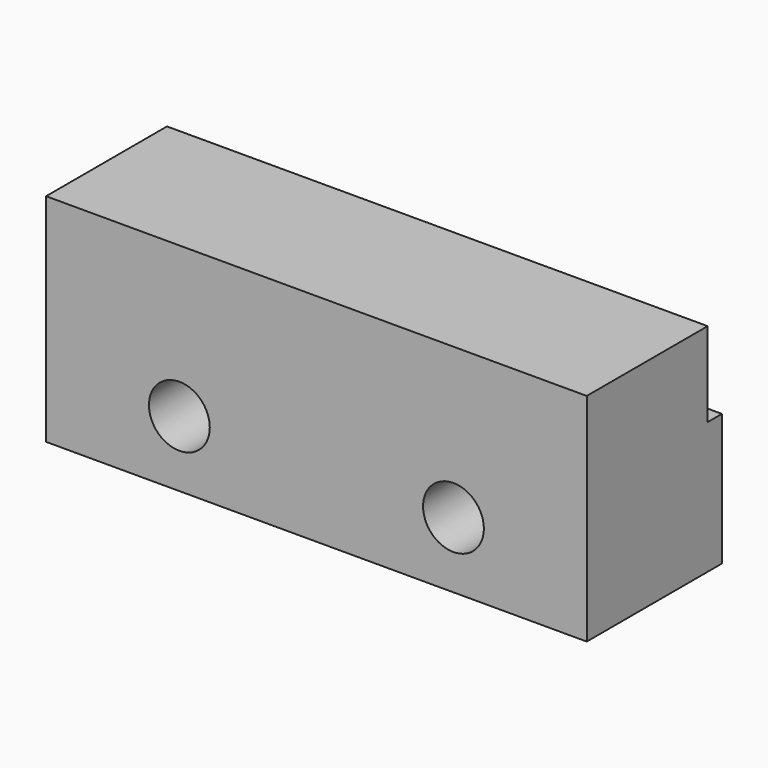
from build123d import *

# Parameters (mm, degrees)
F1_DEPTH = 101.6
F2_R     = 2.38125
F3_DEPTH = 6.35
F4_R     = 5.715
F5_DEPTH = 4.064
F6_DEPTH = 25.4
F7_DEPTH = 23.7960387021


with BuildPart() as f1:
    # F0 (on Right) → F1 (new body)
    with BuildSketch(Plane.YZ):
        Polygon((0, -31.1910395777), (0, -15.3160395777), (-2.9972, -15.3160395777), (-2.9972, -55.9560395777), (3.3528, -55.9560395777), (3.3528, -31.1910395777), align=None)
    extrude(amount=F1_DEPTH)

    # F2 (on face) → F3 (cut, through all)
    with BuildSketch(Plane(origin=(0, 3.3528, 0), x_dir=(-1, 0, 0), z_dir=(0, 1, 0))):
        with Locations((-76.5522494912, -43.5735395777)):
            Circle(F2_R)
        with Locations((-25.0477505088, -43.5735395777)):
            Circle(F2_R)
    extrude(amount=-F3_DEPTH, mode=Mode.SUBTRACT)

    # F4 (on face) → F5 (cut)
    with BuildSketch(Plane.XZ.offset(2.9972)):
        with Locations((25.0477505088, -43.5735395777)):
            Circle(F4_R)
        with Locations((76.5522494912, -43.5735395777)):
            Circle(F4_R)
    extrude(amount=-F5_DEPTH, mode=Mode.SUBTRACT)

    # F6 (add): a face of the model
    f6_faces = [f1.faces().sort_by_distance(p)[0] for p in [
        (50.8, -2.9972, -35.2209054991),
    ]]
    extrude(f6_faces, amount=F6_DEPTH)

    # F7 (cut): a face of the model
    f7_faces = [f1.faces().sort_by_distance(p)[0] for p in [
        (50.8, -14.1986, -15.3160395777),
    ]]
    extrude(f7_faces, amount=F7_DEPTH, mode=Mode.SUBTRACT)


solid = f1.part
